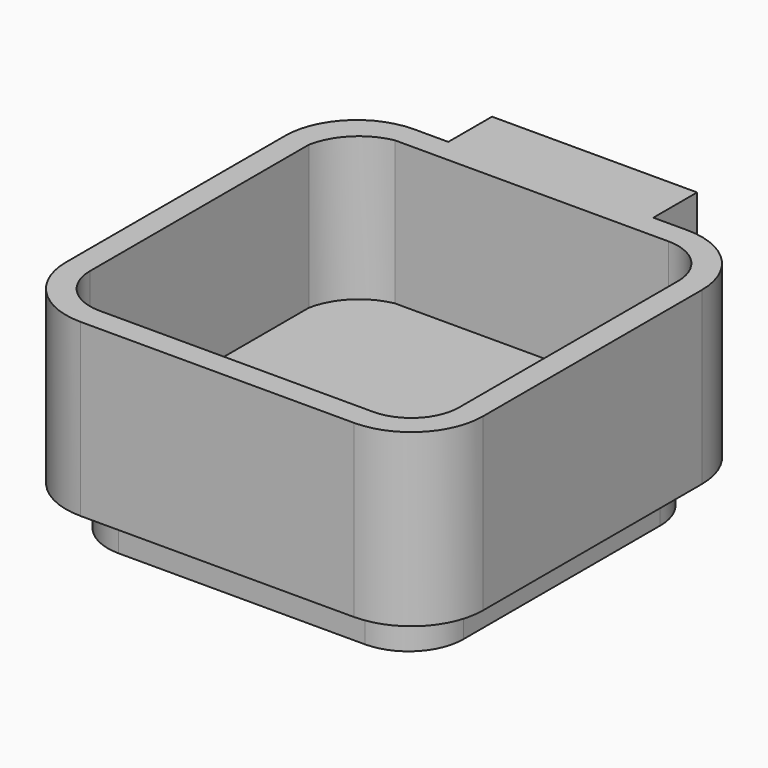
from build123d import *

# Parameters (mm, degrees)
F0_W     = 7
F0_H     = 40
F0_W_2   = 40
F0_H_2   = 7
F1_DEPTH = 4
F0_H_3   = 3.5
F0_W_3   = 3.5
F2_DEPTH = 25
F3_W     = 30
F3_H     = 17
F4_DEPTH = 8
F5_W     = 3.5
F5_H     = 11
F6_DEPTH = 33
F7_W     = 52
F7_H     = 52
F8_DEPTH = 6
F9_R     = 8


with BuildPart() as f1:
    # F0 (on Top) → F1 (new body)
    with BuildSketch(Plane.XY):
        with Locations((-23.5, 0)):
            Rectangle(F0_W, F0_H)
        with BuildLine():
            Line((-27, 20), (-20, 20))
            Line((-20, 20), (-20, 27))
            ThreePointArc((-20, 27), (-24.5803009352, 24.5803009352), (-27, 20))
        make_face()
        with Locations((0, 23.5)):
            Rectangle(F0_W_2, F0_H_2)
        Rectangle(F0_W_2, F0_H)
        with BuildLine():
            Line((20, 20), (27, 20))
            ThreePointArc((27, 20), (24.9497474683, 24.9497474683), (20, 27))
            Line((20, 27), (20, 20))
        make_face()
        with Locations((23.5, 0)):
            Rectangle(F0_W, F0_H)
        with Locations((0, -23.5)):
            Rectangle(F0_W_2, F0_H_2)
        with BuildLine():
            Line((20, -20), (20, -27))
            ThreePointArc((20, -27), (24.9497474683, -24.9497474683), (27, -20))
            Line((27, -20), (20, -20))
        make_face()
        with BuildLine():
            ThreePointArc((-27, -20), (-24.9497474683, -24.9497474683), (-20, -27))
            Line((-20, -27), (-20, -20))
            Line((-20, -20), (-27, -20))
        make_face()
    extrude(amount=F1_DEPTH)

    # F0 (on Top) → F2 (join)
    with BuildSketch(Plane.XY):
        with BuildLine():
            Line((20, -27), (20, -30.5))
            ThreePointArc((20, -30.5), (27.4246212025, -27.4246212025), (30.5, -20))
            Line((30.5, -20), (27, -20))
            Line((27, -20), (27, -27))
            Line((27, -27), (20, -27))
        make_face()
        with BuildLine():
            ThreePointArc((27, -20), (24.9497474683, -24.9497474683), (20, -27))
            Line((20, -27), (27, -27))
            Line((27, -27), (27, -20))
        make_face()
        with Locations((0, -28.75)):
            Rectangle(F0_W_2, F0_H_3)
        with BuildLine():
            ThreePointArc((-30.5, -20), (-27.4246212025, -27.4246212025), (-20, -30.5))
            Line((-20, -30.5), (-20, -27))
            Line((-20, -27), (-27, -27))
            Line((-27, -27), (-27, -20))
            Line((-27, -20), (-30.5, -20))
        make_face()
        with BuildLine():
            Line((-27, -27), (-20, -27))
            ThreePointArc((-20, -27), (-24.9497474683, -24.9497474683), (-27, -20))
            Line((-27, -20), (-27, -27))
        make_face()
        with Locations((-28.75, 0)):
            Rectangle(F0_W_3, F0_H)
        with BuildLine():
            ThreePointArc((-20, 30.5), (-27.4246212025, 27.4246212025), (-30.5, 20))
            Line((-30.5, 20), (-27, 20))
            Line((-27, 20), (-27, 27))
            Line((-27, 27), (-20, 27))
            Line((-20, 27), (-20, 30.5))
        make_face()
        with BuildLine():
            Line((-27, 27), (-27, 20))
            ThreePointArc((-27, 20), (-24.5803009352, 24.5803009352), (-20, 27))
            Line((-20, 27), (-27, 27))
        make_face()
        with Locations((0, 28.75)):
            Rectangle(F0_W_2, F0_H_3)
        with BuildLine():
            Line((27, 20), (30.5, 20))
            ThreePointArc((30.5, 20), (27.4246212025, 27.4246212025), (20, 30.5))
            Line((20, 30.5), (20, 27))
            Line((20, 27), (27, 27))
            Line((27, 27), (27, 20))
        make_face()
        with BuildLine():
            ThreePointArc((20, 27), (24.9497474683, 24.9497474683), (27, 20))
            Line((27, 20), (27, 27))
            Line((27, 27), (20, 27))
        make_face()
        with Locations((28.75, 0)):
            Rectangle(F0_W_3, F0_H)
    extrude(amount=F2_DEPTH)

    # F3 (on face) → F4 (join)
    with BuildSketch(Plane(origin=(0, 30.5, 0), x_dir=(-1, 0, 0), z_dir=(0, 1, 0))):
        with Locations((0, 16.5)):
            Rectangle(F3_W, F3_H)
    extrude(amount=F4_DEPTH)

    # F5 (on face) → F6 (cut)
    with BuildSketch(Plane(origin=(-15, 0, 0), x_dir=(0, -1, 0), z_dir=(-1, 0, 0))):
        with Locations((-32.25, 13.5)):
            Rectangle(F5_W, F5_H)
    extrude(amount=-F6_DEPTH, mode=Mode.SUBTRACT)

    # F7 (on face) → F8 (join)
    with BuildSketch(Plane(origin=(0, 0, 0), x_dir=(1, 0, 0), z_dir=(0, 0, -1))):
        Rectangle(F7_W, F7_H)
    extrude(amount=F8_DEPTH)

    # F9
    f9_edges = [f1.edges().sort_by_distance(p)[0] for p in [
        (-26, -26, -3),
        (26, -26, -3),
        (26, 26, -3),
        (-26, 26, -3),
    ]]
    fillet(f9_edges, radius=F9_R)


solid = f1.part
